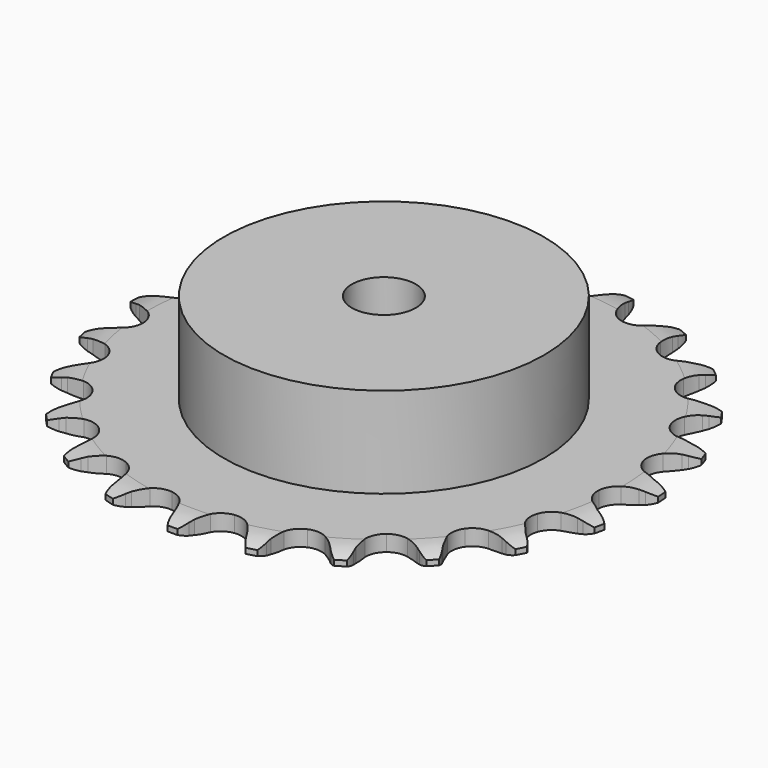
from build123d import *

# Parameters (mm, degrees)
PAD_DEPTH         = 3
SKETCH001_R       = 30
PAD001_DEPTH      = 20
SKETCH002_R       = 6
POCKET_DEPTH      = 0.001
POCKET_DEPTH_BACK = 20.001


with BuildPart() as part:
    # Sprocket → Pad (new body)
    with BuildSketch(Plane.XY):
        with BuildLine():
            ThreePointArc((-6.902422, 50.21885), (-5.698677, 49.018834), (-4.855886, 47.542778))
            Line((-4.855886, 47.542778), (-4.480163, 46.614859))
            ThreePointArc((-4.480163, 46.614859), (-3.878697, 45.378099), (-3.115295, 44.23418))
            ThreePointArc((-3.115295, 44.23418), (-1.735943, 43.105455), (0, 42.701558))
            ThreePointArc((0, 42.701558), (1.735943, 43.105455), (3.115295, 44.23418))
            ThreePointArc((3.115295, 44.23418), (3.878697, 45.378099), (4.480163, 46.614859))
            Line((4.480163, 46.614859), (4.855886, 47.542778))
            ThreePointArc((4.855886, 47.542778), (5.698677, 49.018834), (6.902422, 50.21885))
            ThreePointArc((6.902422, 50.21885), (7.737769, 48.738568), (8.151072, 47.089865))
            Line((8.151072, 47.089865), (8.262512, 46.094987))
            ThreePointArc((8.262512, 46.094987), (8.508001, 44.741816), (8.934467, 43.434353))
            ThreePointArc((8.934467, 43.434353), (9.958143, 41.97534), (11.520742, 41.118068))
            ThreePointArc((11.520742, 41.118068), (13.301282, 41.038636), (14.93401, 41.75336))
            Line((14.93401, 41.75336), (16.890564, 43.67752))
            ThreePointArc((16.890564, 43.67752), (17.186845, 44.081155), (17.502704, 44.46966))
            ThreePointArc((17.502704, 44.46966), (18.712478, 45.663598), (20.195345, 46.494348))
            ThreePointArc((20.195345, 46.494348), (20.600339, 44.843584), (20.553501, 43.144512))
            Line((20.553501, 43.144512), (20.392394, 42.15646))
            ThreePointArc((20.392394, 42.15646), (20.263699, 40.787237), (20.321601, 39.413199))
            ThreePointArc((20.321601, 39.413199), (20.913679, 37.732105), (22.187044, 36.48504))
            ThreePointArc((22.187044, 36.48504), (23.880126, 35.928169), (25.645138, 36.175884))
            Line((25.645138, 36.175884), (28.04827, 37.500819))
            ThreePointArc((28.04827, 37.500819), (28.442464, 37.809551), (28.851427, 38.098432))
            ThreePointArc((28.851427, 38.098432), (30.33846, 38.921702), (31.990472, 39.321572))
            ThreePointArc((31.990472, 39.321572), (31.935077, 37.622758), (31.431572, 35.999328))
            Line((31.431572, 35.999328), (31.009866, 35.091382))
            ThreePointArc((31.009866, 35.091382), (30.516531, 33.807655), (30.201575, 32.468948))
            ThreePointArc((30.201575, 32.468948), (30.318144, 30.690453), (31.207834, 29.146083))
            ThreePointArc((31.207834, 29.146083), (32.68789, 28.153074), (34.454284, 27.915409))
            Line((34.454284, 27.915409), (37.125764, 28.542854))
            ThreePointArc((37.125764, 28.542854), (37.588635, 28.733785), (38.060372, 28.901617))
            ThreePointArc((38.060372, 28.901617), (39.714377, 29.293161), (41.413012, 29.232496))
            ThreePointArc((41.413012, 29.232496), (40.901336, 27.611623), (39.978506, 26.184239))
            Line((39.978506, 26.184239), (39.327478, 25.423737))
            ThreePointArc((39.327478, 25.423737), (38.506091, 24.320714), (37.841636, 23.116624))
            ThreePointArc((37.841636, 23.116624), (37.47405, 21.372631), (37.914082, 19.645494))
            ThreePointArc((37.914082, 19.645494), (39.071343, 18.289995), (40.708112, 17.584575))
            Line((40.708112, 17.584575), (43.44981, 17.467997))
            ThreePointArc((43.44981, 17.467997), (43.947028, 17.526966), (44.446553, 17.561301))
            ThreePointArc((44.446553, 17.561301), (46.144861, 17.492081), (47.764138, 16.975379))
            ThreePointArc((47.764138, 16.975379), (46.834131, 15.552661), (45.560418, 14.427184))
            Line((45.560418, 14.427184), (44.72835, 13.870529))
            ThreePointArc((44.72835, 13.870529), (43.639831, 13.030017), (42.675156, 12.049846))
            ThreePointArc((42.675156, 12.049846), (41.850677, 10.469698), (41.808416, 8.687889))
            ThreePointArc((41.808416, 8.687889), (42.557053, 7.07043), (43.942807, 5.949574))
            Line((43.942807, 5.949574), (46.551382, 5.097617))
            ThreePointArc((46.551382, 5.097617), (47.046072, 5.020252), (47.536336, 4.918544))
            ThreePointArc((47.536336, 4.918544), (49.152991, 4.393693), (50.572816, 3.459275))
            ThreePointArc((50.572816, 3.459275), (49.293452, 2.340228), (47.763322, 1.600132))
            Line((47.763322, 1.600132), (46.811926, 1.288608))
            ThreePointArc((46.811926, 1.288608), (45.537004, 0.772943), (44.343655, 0.089385))
            ThreePointArc((44.343655, 0.089385), (43.123431, -1.209724), (42.602011, -2.914057))
            ThreePointArc((42.602011, -2.914057), (42.886501, -4.673516), (43.918464, -6.12668))
            Line((43.918464, -6.12668), (46.200451, -7.650829))
            ThreePointArc((46.200451, -7.650829), (46.655924, -7.858791), (47.100567, -8.088999))
            ThreePointArc((47.100567, -8.088999), (48.515669, -9.030556), (49.630741, -10.313386))
            ThreePointArc((49.630741, -10.313386), (48.096903, -11.045768), (46.423839, -11.345596))
            Line((46.423839, -11.345596), (45.423675, -11.388884))
            ThreePointArc((45.423675, -11.388884), (44.056906, -11.541456), (42.723388, -11.877704))
            ThreePointArc((42.723388, -11.877704), (41.197918, -12.799427), (40.236009, -14.299881))
            ThreePointArc((40.236009, -14.299881), (40.035254, -16.070849), (40.63689, -17.748546))
            Line((40.63689, -17.748546), (42.423044, -19.831848))
            ThreePointArc((42.423044, -19.831848), (42.80552, -20.154983), (43.171565, -20.496618))
            ThreePointArc((43.171565, -20.496618), (44.280161, -21.785049), (45.00778, -23.321152))
            ThreePointArc((45.00778, -23.321152), (43.333227, -23.61255), (41.641312, -23.449872))
            Line((41.641312, -23.449872), (40.666558, -23.221714))
            ThreePointArc((40.666558, -23.221714), (39.309309, -22.999879), (37.934522, -22.963879))
            ThreePointArc((37.934522, -22.963879), (36.216943, -23.439855), (34.885887, -24.625148))
            ThreePointArc((34.885887, -24.625148), (34.214775, -26.276281), (34.341464, -28.054083))
            Line((34.341464, -28.054083), (35.499314, -30.54203))
            ThreePointArc((35.499314, -30.54203), (35.780425, -30.956373), (36.040724, -31.384097))
            ThreePointArc((36.040724, -31.384097), (36.760597, -32.923845), (37.046798, -34.599294))
            ThreePointArc((37.046798, -34.599294), (35.355723, -34.428097), (33.770439, -33.814979))
            Line((33.770439, -33.814979), (32.893388, -33.332295))
            ThreePointArc((32.893388, -33.332295), (31.64632, -32.752505), (30.332227, -32.346927))
            ThreePointArc((30.332227, -32.346927), (28.549924, -32.341856), (26.948438, -33.124081))
            ThreePointArc((26.948438, -33.124081), (25.856742, -34.532921), (25.499088, -36.278978))
            Line((25.499088, -36.278978), (25.942763, -38.987049))
            ThreePointArc((25.942763, -38.987049), (26.101661, -39.46187), (26.236909, -39.94396))
            ThreePointArc((26.236909, -39.94396), (26.514667, -41.62083), (26.338224, -43.311364))
            ThreePointArc((26.338224, -43.311364), (24.756048, -42.69027), (23.394968, -41.672183))
            Line((23.394968, -41.672183), (22.680666, -40.970773))
            ThreePointArc((22.680666, -40.970773), (21.636269, -40.076029), (20.480329, -39.330952))
            ThreePointArc((20.480329, -39.330952), (18.765487, -38.845209), (17.012347, -39.166352))
            ThreePointArc((17.012347, -39.166352), (15.581034, -40.228412), (14.765562, -41.813226))
            Line((14.765562, -41.813226), (14.462155, -44.540577))
            ThreePointArc((14.462155, -44.540577), (14.487055, -45.04066), (14.487221, -45.541363))
            ThreePointArc((14.487221, -45.541363), (14.302266, -47.230988), (13.676265, -48.811229))
            ThreePointArc((13.676265, -48.811229), (12.32033, -47.786301), (11.284398, -46.438752))
            Line((11.284398, -46.438752), (10.785823, -45.570637))
            ThreePointArc((10.785823, -45.570637), (10.021554, -44.427296), (9.109499, -43.397981))
            ThreePointArc((9.109499, -43.397981), (7.5893, -42.467591), (5.814528, -42.303833))
            ThreePointArc((5.814528, -42.303833), (4.149751, -42.940346), (2.936941, -44.246379))
            Line((2.936941, -44.246379), (1.908955, -46.790734))
            ThreePointArc((1.908955, -46.790734), (1.798011, -47.278991), (1.663083, -47.761171))
            ThreePointArc((1.663083, -47.761171), (1.029131, -49.33824), (0, -50.690989))
            ThreePointArc((0, -50.690989), (-1.029131, -49.33824), (-1.663083, -47.761171))
            Line((-1.663083, -47.761171), (-1.908955, -46.790734))
            ThreePointArc((-1.908955, -46.790734), (-2.336414, -45.483594), (-2.936941, -44.246379))
            ThreePointArc((-2.936941, -44.246379), (-4.149751, -42.940346), (-5.814528, -42.303833))
            ThreePointArc((-5.814528, -42.303833), (-7.5893, -42.467591), (-9.109499, -43.397981))
            Line((-9.109499, -43.397981), (-10.785823, -45.570637))
            ThreePointArc((-10.785823, -45.570637), (-11.024383, -46.010856), (-11.284398, -46.438752))
            ThreePointArc((-11.284398, -46.438752), (-12.32033, -47.786301), (-13.676265, -48.811229))
            ThreePointArc((-13.676265, -48.811229), (-14.302266, -47.230988), (-14.487221, -45.541363))
            Line((-14.487221, -45.541363), (-14.462155, -44.540577))
            ThreePointArc((-14.462155, -44.540577), (-14.5211, -43.166583), (-14.765562, -41.813226))
            ThreePointArc((-14.765562, -41.813226), (-15.581034, -40.228412), (-17.012347, -39.166352))
            ThreePointArc((-17.012347, -39.166352), (-18.765487, -38.845209), (-20.480329, -39.330952))
            Line((-20.480329, -39.330952), (-22.680666, -40.970773))
            ThreePointArc((-22.680666, -40.970773), (-23.029149, -41.330305), (-23.394968, -41.672183))
            ThreePointArc((-23.394968, -41.672183), (-24.756048, -42.69027), (-26.338224, -43.311364))
            ThreePointArc((-26.338224, -43.311364), (-26.514667, -41.62083), (-26.236909, -39.94396))
            Line((-26.236909, -39.94396), (-25.942763, -38.987049))
            ThreePointArc((-25.942763, -38.987049), (-25.628823, -37.648103), (-25.499088, -36.278978))
            ThreePointArc((-25.499088, -36.278978), (-25.856742, -34.532921), (-26.948438, -33.124081))
            ThreePointArc((-26.948438, -33.124081), (-28.549924, -32.341856), (-30.332227, -32.346927))
            Line((-30.332227, -32.346927), (-32.893388, -33.332295))
            ThreePointArc((-32.893388, -33.332295), (-33.325949, -33.584475), (-33.770439, -33.814979))
            ThreePointArc((-33.770439, -33.814979), (-35.355723, -34.428097), (-37.046798, -34.599294))
            ThreePointArc((-37.046798, -34.599294), (-36.760597, -32.923845), (-36.040724, -31.384097))
            Line((-36.040724, -31.384097), (-35.499314, -30.54203))
            ThreePointArc((-35.499314, -30.54203), (-34.835773, -29.337435), (-34.341464, -28.054083))
            ThreePointArc((-34.341464, -28.054083), (-34.214775, -26.276281), (-34.885887, -24.625148))
            ThreePointArc((-34.885887, -24.625148), (-36.216943, -23.439855), (-37.934522, -22.963879))
            Line((-37.934522, -22.963879), (-40.666558, -23.221714))
            ThreePointArc((-40.666558, -23.221714), (-41.151115, -23.347839), (-41.641312, -23.449872))
            ThreePointArc((-41.641312, -23.449872), (-43.333227, -23.61255), (-45.00778, -23.321152))
            ThreePointArc((-45.00778, -23.321152), (-44.280161, -21.785049), (-43.171565, -20.496618))
            Line((-43.171565, -20.496618), (-42.423044, -19.831848))
            ThreePointArc((-42.423044, -19.831848), (-41.459113, -18.850944), (-40.63689, -17.748546))
            ThreePointArc((-40.63689, -17.748546), (-40.035254, -16.070849), (-40.236009, -14.299881))
            ThreePointArc((-40.236009, -14.299881), (-41.197918, -12.799427), (-42.723388, -11.877704))
            Line((-42.723388, -11.877704), (-45.423675, -11.388884))
            ThreePointArc((-45.423675, -11.388884), (-45.924292, -11.379599), (-46.423839, -11.345596))
            ThreePointArc((-46.423839, -11.345596), (-48.096903, -11.045768), (-49.630741, -10.313386))
            ThreePointArc((-49.630741, -10.313386), (-48.515669, -9.030556), (-47.100567, -8.088999))
            Line((-47.100567, -8.088999), (-46.200451, -7.650829))
            ThreePointArc((-46.200451, -7.650829), (-45.007621, -6.966365), (-43.918464, -6.12668))
            ThreePointArc((-43.918464, -6.12668), (-42.886501, -4.673516), (-42.602011, -2.914057))
            ThreePointArc((-42.602011, -2.914057), (-43.123431, -1.209724), (-44.343655, 0.089385))
            Line((-44.343655, 0.089385), (-46.811926, 1.288608))
            ThreePointArc((-46.811926, 1.288608), (-47.291474, 1.432613), (-47.763322, 1.600132))
            ThreePointArc((-47.763322, 1.600132), (-49.293452, 2.340228), (-50.572816, 3.459275))
            ThreePointArc((-50.572816, 3.459275), (-49.152991, 4.393693), (-47.536336, 4.918544))
            Line((-47.536336, 4.918544), (-46.551382, 5.097617))
            ThreePointArc((-46.551382, 5.097617), (-45.218119, 5.434877), (-43.942807, 5.949574))
            ThreePointArc((-43.942807, 5.949574), (-42.557053, 7.07043), (-41.808416, 8.687889))
            ThreePointArc((-41.808416, 8.687889), (-41.850677, 10.469698), (-42.675156, 12.049846))
            Line((-42.675156, 12.049846), (-44.72835, 13.870529))
            ThreePointArc((-44.72835, 13.870529), (-45.151263, 14.138574), (-45.560418, 14.427184))
            ThreePointArc((-45.560418, 14.427184), (-46.834131, 15.552661), (-47.764138, 16.975379))
            ThreePointArc((-47.764138, 16.975379), (-46.144861, 17.492081), (-44.446553, 17.561301))
            Line((-44.446553, 17.561301), (-43.44981, 17.467997))
            ThreePointArc((-43.44981, 17.467997), (-42.074996, 17.43304), (-40.708112, 17.584575))
            ThreePointArc((-40.708112, 17.584575), (-39.071343, 18.289995), (-37.914082, 19.645494))
            ThreePointArc((-37.914082, 19.645494), (-37.47405, 21.372631), (-37.841636, 23.116624))
            Line((-37.841636, 23.116624), (-39.327478, 25.423737))
            ThreePointArc((-39.327478, 25.423737), (-39.66239, 25.795943), (-39.978506, 26.184239))
            ThreePointArc((-39.978506, 26.184239), (-40.901336, 27.611623), (-41.413012, 29.232496))
            ThreePointArc((-41.413012, 29.232496), (-39.714377, 29.293161), (-38.060372, 28.901617))
            Line((-38.060372, 28.901617), (-37.125764, 28.542854))
            ThreePointArc((-37.125764, 28.542854), (-35.811364, 28.138273), (-34.454284, 27.915409))
            ThreePointArc((-34.454284, 27.915409), (-32.68789, 28.153074), (-31.207834, 29.146083))
            ThreePointArc((-31.207834, 29.146083), (-30.318144, 30.690453), (-30.201575, 32.468948))
            Line((-30.201575, 32.468948), (-31.009866, 35.091382))
            ThreePointArc((-31.009866, 35.091382), (-31.231939, 35.540144), (-31.431572, 35.999328))
            ThreePointArc((-31.431572, 35.999328), (-31.935077, 37.622758), (-31.990472, 39.321572))
            ThreePointArc((-31.990472, 39.321572), (-30.33846, 38.921702), (-28.851427, 38.098432))
            Line((-28.851427, 38.098432), (-28.04827, 37.500819))
            ThreePointArc((-28.04827, 37.500819), (-26.891766, 36.75662), (-25.645138, 36.175884))
            ThreePointArc((-25.645138, 36.175884), (-23.880126, 35.928169), (-22.187044, 36.48504))
            ThreePointArc((-22.187044, 36.48504), (-20.913679, 37.732105), (-20.321601, 39.413199))
            Line((-20.321601, 39.413199), (-20.392394, 42.15646))
            ThreePointArc((-20.392394, 42.15646), (-20.485158, 42.648495), (-20.553501, 43.144512))
            ThreePointArc((-20.553501, 43.144512), (-20.600339, 44.843584), (-20.195345, 46.494348))
            ThreePointArc((-20.195345, 46.494348), (-18.712478, 45.663598), (-17.502704, 44.46966))
            Line((-17.502704, 44.46966), (-16.890564, 43.67752))
            ThreePointArc((-16.890564, 43.67752), (-15.977729, 42.648897), (-14.93401, 41.75336))
            ThreePointArc((-14.93401, 41.75336), (-13.301282, 41.038636), (-11.520742, 41.118068))
            ThreePointArc((-11.520742, 41.118068), (-9.958143, 41.97534), (-8.934467, 43.434353))
            Line((-8.934467, 43.434353), (-8.262512, 46.094987))
            ThreePointArc((-8.262512, 46.094987), (-8.219086, 46.593803), (-8.151072, 47.089865))
            ThreePointArc((-8.151072, 47.089865), (-7.737769, 48.738568), (-6.902422, 50.21885))
        make_face()
    extrude(amount=PAD_DEPTH)

    # Sketch → Groove (revolve, cut)
    with BuildSketch(Plane.XZ):
        with BuildLine():
            Line((44.5, 0), (49.5, 0))
            Line((54.5, 0), (49.5, 0))
            Line((54.5, 3), (54.5, 0))
            Line((49.5, 3), (54.5, 3))
            Line((44.5, 3), (49.5, 3))
            ThreePointArc((49.5, 2), (47.04951, 2.747549), (44.5, 3))
            Line((49.5, 1), (49.5, 2))
            ThreePointArc((44.5, 0), (47.04951, 0.252451), (49.5, 1))
        make_face()
    revolve(axis=Axis((0, 0, 0), (0, 0, 1)), mode=Mode.SUBTRACT)

    # Sketch001 → Pad001 (join)
    with BuildSketch(Plane.XY):
        Circle(SKETCH001_R)
    extrude(amount=PAD001_DEPTH)

    # Sketch002 → Pocket (cut, two sides)
    with BuildSketch(Plane.XY) as pocket_sk:
        Circle(SKETCH002_R)
    extrude(amount=-POCKET_DEPTH, mode=Mode.SUBTRACT)
    extrude(pocket_sk.sketch, amount=POCKET_DEPTH_BACK, mode=Mode.SUBTRACT)


solid = part.part
